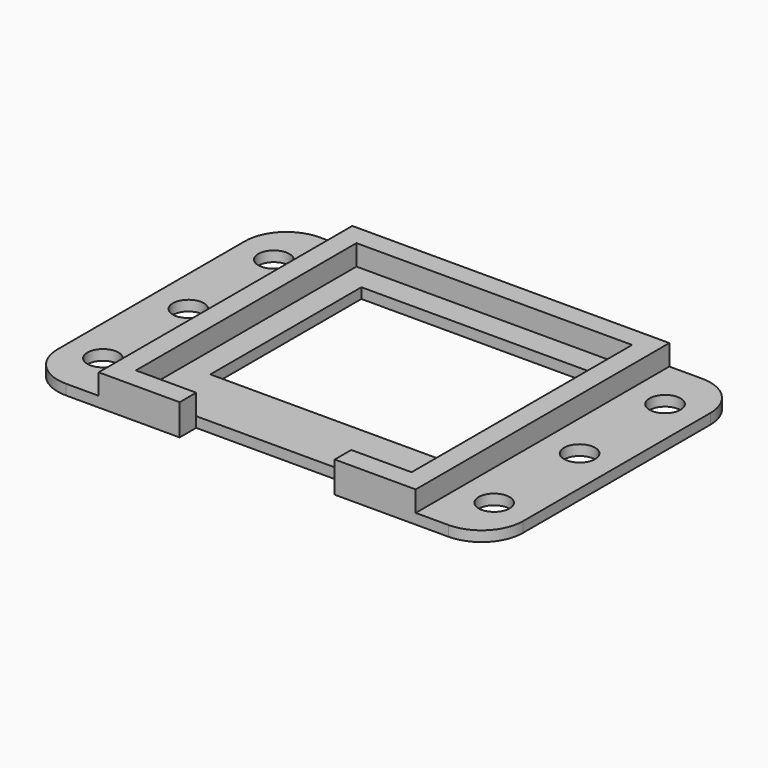
from build123d import *

# Parameters (mm, degrees)
F0_W     = 27.7622
F0_H     = 23.1902
F1_DEPTH = 1.27
F2_DEPTH = 3.81
F0_W_2   = 9.1059
F0_H_2   = 38.9382
F0_R     = 1.905
F3_DEPTH = 1.27
F4_R     = 5.08


with BuildPart() as f1:
    # F0 (on Top) → F1 (new body)
    with BuildSketch(Plane.XY):
        Polygon((16.9291, -16.9291), (16.9291, 16.9291), (-16.9291, 16.9291), (-16.9291, -16.9291), (-9.525, -16.9291), (9.525, -16.9291), align=None)
        with Locations((0, 2.286)):
            Rectangle(F0_W, F0_H, mode=Mode.SUBTRACT)
    extrude(amount=F1_DEPTH)

    # F0 (on Top) → F2 (join)
    with BuildSketch(Plane.XY):
        Polygon((-16.9291, 16.9291), (16.9291, 16.9291), (16.9291, -16.9291), (9.525, -16.9291), (9.525, -19.4691), (19.4691, -19.4691), (19.4691, 19.4691), (-19.4691, 19.4691), (-19.4691, -19.4691), (-9.525, -19.4691), (-9.525, -16.9291), (-16.9291, -16.9291), align=None)
    extrude(amount=F2_DEPTH)

    # F0 (on Top) → F3 (join)
    with BuildSketch(Plane.XY):
        with Locations((-24.02205, 0)):
            Rectangle(F0_W_2, F0_H_2)
        with Locations((-24.02205, -13.1191)):
            Circle(F0_R, mode=Mode.SUBTRACT)
        with Locations((-24.02205, 0)):
            Circle(F0_R, mode=Mode.SUBTRACT)
        with Locations((-24.02205, 13.1191)):
            Circle(F0_R, mode=Mode.SUBTRACT)
        with Locations((24.02205, 0)):
            Rectangle(F0_W_2, F0_H_2)
        with Locations((24.02205, -13.1191)):
            Circle(F0_R, mode=Mode.SUBTRACT)
        with Locations((24.02205, 0)):
            Circle(F0_R, mode=Mode.SUBTRACT)
        with Locations((24.02205, 13.1191)):
            Circle(F0_R, mode=Mode.SUBTRACT)
        Polygon((-16.9291, 16.9291), (16.9291, 16.9291), (16.9291, -16.9291), (9.525, -16.9291), (9.525, -19.4691), (19.4691, -19.4691), (19.4691, 19.4691), (-19.4691, 19.4691), (-19.4691, -19.4691), (-9.525, -19.4691), (-9.525, -16.9291), (-16.9291, -16.9291), align=None)
        Polygon((16.9291, -16.9291), (16.9291, 16.9291), (-16.9291, 16.9291), (-16.9291, -16.9291), (-9.525, -16.9291), (9.525, -16.9291), align=None)
        with Locations((0, 2.286)):
            Rectangle(F0_W, F0_H, mode=Mode.SUBTRACT)
    extrude(amount=F3_DEPTH)

    # F4
    f4_edges = [f1.edges().sort_by_distance(p)[0] for p in [
        (-28.575, 19.4691, 0.635),
        (-28.575, -19.4691, 0.635),
        (28.575, 19.4691, 0.635),
        (28.575, -19.4691, 0.635),
    ]]
    fillet(f4_edges, radius=F4_R)


solid = f1.part
